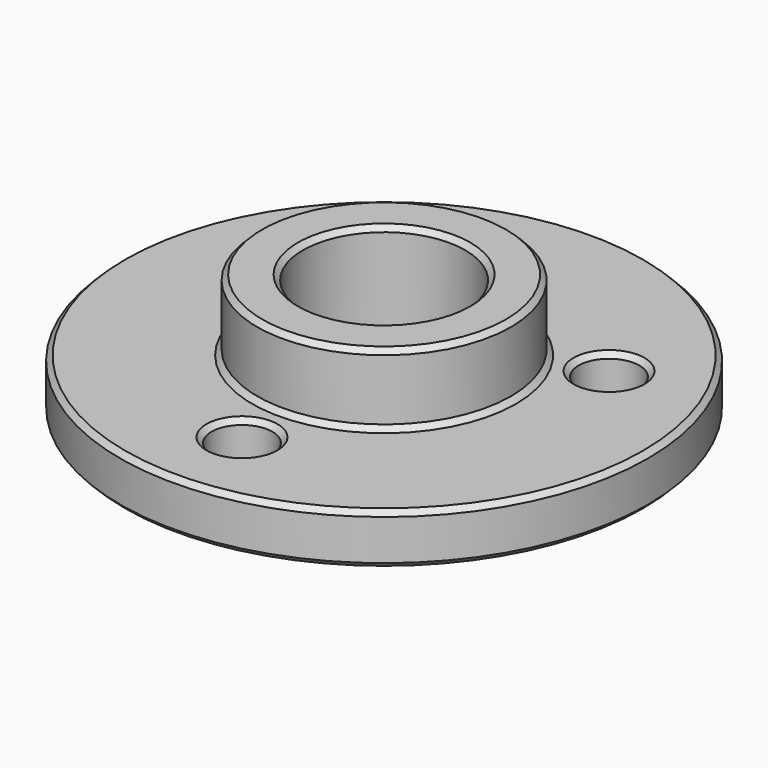
from build123d import *

# Parameters (mm, degrees)
F0_R     = 26
F0_R_2   = 3
F0_R_3   = 12.5
F1_DEPTH = 5
F0_R_4   = 8
F2_DEPTH = 12
F3_SIZE  = 0.5


with BuildPart() as f1:
    # F0 (on Top) → F1 (new body)
    with BuildSketch(Plane.XY):
        Circle(F0_R)
        with Locations((0, -17.5)):
            Circle(F0_R_2, mode=Mode.SUBTRACT)
        with Locations((-15.155445, 8.75)):
            Circle(F0_R_2, mode=Mode.SUBTRACT)
        Circle(F0_R_3, mode=Mode.SUBTRACT)
        with Locations((15.155445, 8.75)):
            Circle(F0_R_2, mode=Mode.SUBTRACT)
    extrude(amount=F1_DEPTH)

    # F0 (on Top) → F2 (join)
    with BuildSketch(Plane.XY):
        Circle(F0_R_3)
        Circle(F0_R_4, mode=Mode.SUBTRACT)
    extrude(amount=F2_DEPTH)

    # F3
    f3_edges = [f1.edges().sort_by_distance(p)[0] for p in [
        (-12.5, 0, 12),
        (-8, 0, 12),
        (-26, 0, 5),
        (-3, -17.5, 5),
        (-18.155445, 8.75, 5),
        (-12.5, 0, 5),
        (12.155445, 8.75, 5),
        (-26, 0, 0),
        (-3, -17.5, 0),
        (-18.155445, 8.75, 0),
        (12.155445, 8.75, 0),
        (-8, 0, 0),
    ]]
    chamfer(f3_edges, length=F3_SIZE)


solid = f1.part
